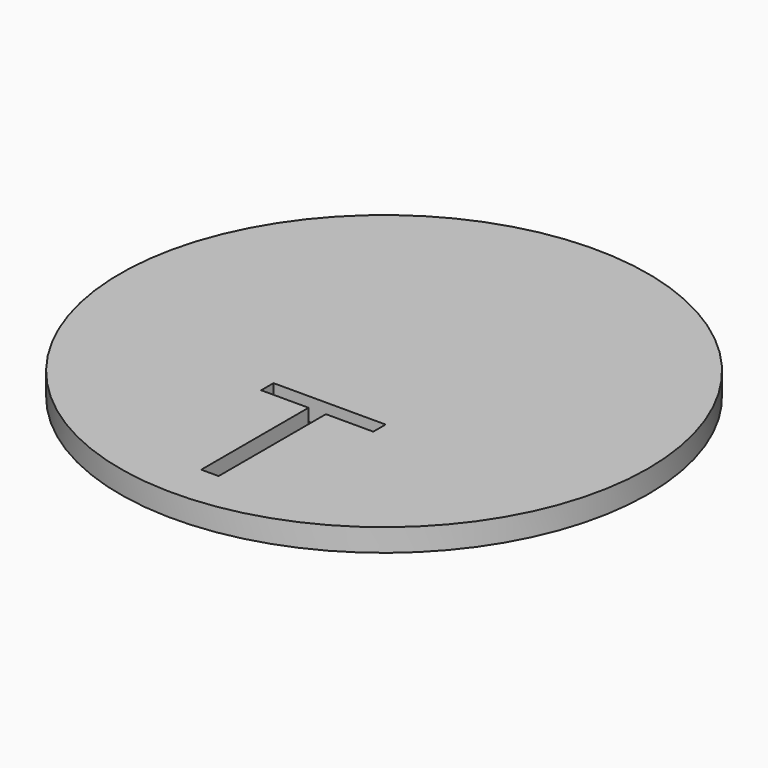
from build123d import *

# Parameters (mm, degrees)
F0_R     = 35
F1_DEPTH = 3


with BuildPart() as f1:
    # F0 (on Top) → F1 (new body)
    with BuildSketch(Plane.XY):
        Circle(F0_R)
        Polygon((1.3271400147, -11.3017448724), (1.3271400147, -29.083862928), (-0.9775474853, -29.083862928), (-0.9775474853, -11.3017448724), (-7.2579294297, -11.3017448724), (-7.2579294297, -9.2531337613), (7.6075219592, -9.2531337613), (7.6075219592, -11.3017448724), align=None, mode=Mode.SUBTRACT)
    extrude(amount=F1_DEPTH)


solid = f1.part
